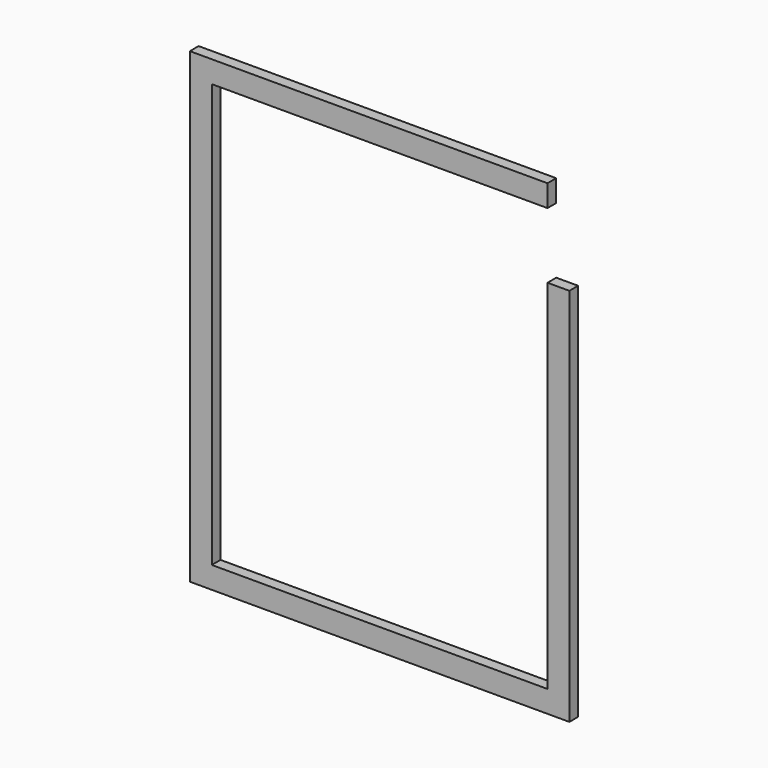
from build123d import *

# Parameters (mm, degrees)
F0_W     = 660.4
F0_H     = 812.8
F0_W_2   = 584.2
F0_H_2   = 736.6
F1_DEPTH = 19.05
F2_W     = 38.1
F2_H     = 19.05
F3_DEPTH = 152.4


with BuildPart() as f1:
    # F0 (on Front) → F1 (new body)
    with BuildSketch(Plane.XZ):
        with Locations((330.2, 406.4)):
            Rectangle(F0_W, F0_H)
        with Locations((330.2, 406.4)):
            Rectangle(F0_W_2, F0_H_2, mode=Mode.SUBTRACT)
    extrude(amount=F1_DEPTH)

    # F2 (on face) → F3 (cut)
    with BuildSketch(Plane.XY.offset(812.8)):
        with Locations((641.35, -9.525)):
            Rectangle(F2_W, F2_H)
    extrude(amount=-F3_DEPTH, mode=Mode.SUBTRACT)


solid = f1.part
